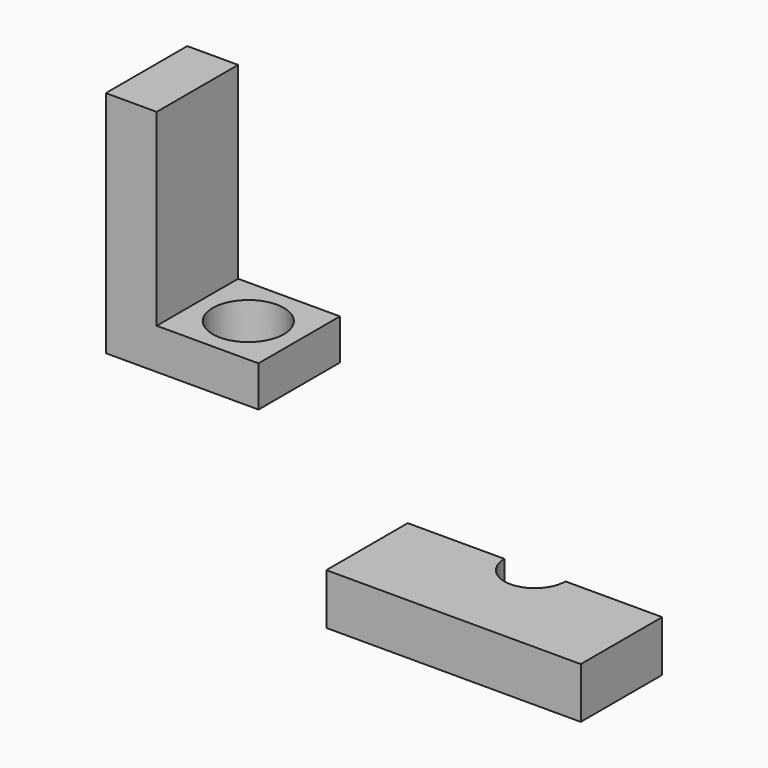
from build123d import *

# Parameters (mm, degrees)
F1_DEPTH = 10
F3_DEPTH = 4.5
F5_DEPTH = 20
F6_R     = 7
F7_DEPTH = 25


with BuildPart() as f1:
    # F0 (on Top) → F1 (new body)
    with BuildSketch(Plane.XY):
        with BuildLine():
            Line((-2.959461, 20), (-21.959461, 20))
            Line((-21.959461, 20), (-21.959461, 0))
            Line((-21.959461, 0), (28.040539, 0))
            Line((28.040539, 0), (28.040539, 20))
            Line((28.040539, 20), (9.040539, 20))
            ThreePointArc((9.040539, 20), (3.040539, 14), (-2.959461, 20))
        make_face()
    extrude(amount=F1_DEPTH)

    # F2 (on face) → F3 (cut)
    with BuildSketch(Plane(origin=(0, 0, 0), x_dir=(1, 0, 0), z_dir=(0, 0, -1))):
        with BuildLine():
            Line((-4.959461, -20), (11.040539, -20))
            ThreePointArc((11.040539, -20), (3.040539, -12), (-4.959461, -20))
        make_face()
    extrude(amount=-F3_DEPTH, mode=Mode.SUBTRACT)


with BuildPart() as f5:
    # F4 (on Front) → F5 (new body)
    with BuildSketch(Plane.XZ):
        Polygon((-55.287454, 78.434325), (-65.287454, 78.434325), (-65.287454, 33.434325), (-35.287454, 33.434325), (-35.287454, 41.434325), (-55.287454, 41.434325), align=None)
    extrude(amount=-F5_DEPTH)

    # F6 (on face) → F7 (cut)
    with BuildSketch(Plane.XY.offset(41.434325)):
        with Locations((-45.287454, 10)):
            Circle(F6_R)
    extrude(amount=-F7_DEPTH, mode=Mode.SUBTRACT)


solid = Compound([f1.part, f5.part])
